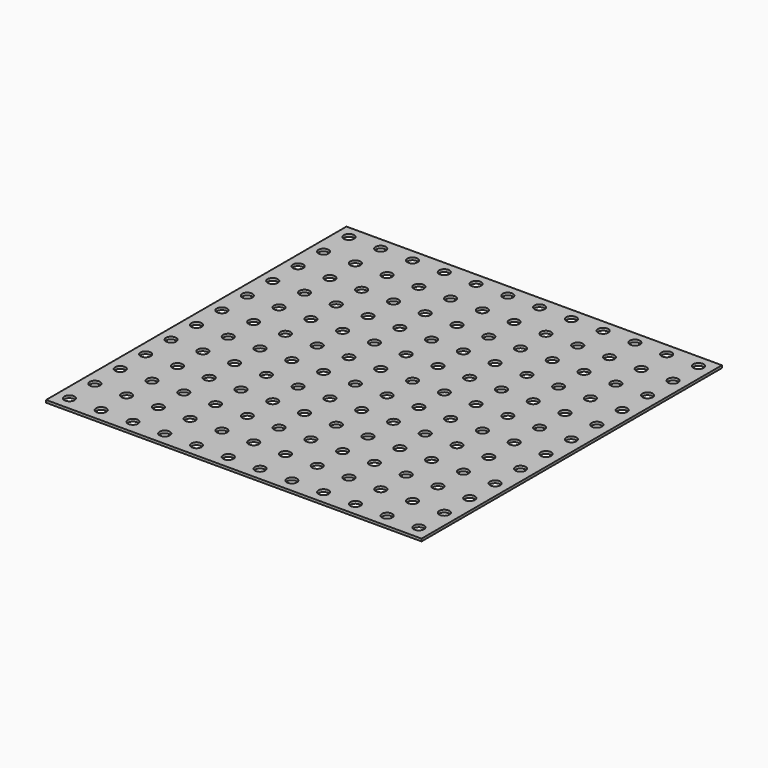
from build123d import *

# Parameters (mm, degrees)
SKETCH_W     = 150
SKETCH_H     = 150
PAD_DEPTH    = 1
SKETCH001_R  = 2.05
POCKET_DEPTH = 1.001


with BuildPart() as part:
    # Sketch → Pad (new body)
    with BuildSketch(Plane.XY):
        Rectangle(SKETCH_W, SKETCH_H)
    extrude(amount=PAD_DEPTH)

    # Sketch001 (on Face6 of Pad) → Pocket (cut, through all)
    with BuildSketch(Plane.XY.offset(1)):
        with Locations((-70, 70)):
            Circle(SKETCH001_R)
        with Locations((-57.30827, 70.00135)):
            Circle(SKETCH001_R)
        with Locations((-44.61654, 70.0027)):
            Circle(SKETCH001_R)
        with Locations((-31.92481, 70.00405)):
            Circle(SKETCH001_R)
        with Locations((-19.23308, 70.0054)):
            Circle(SKETCH001_R)
        with Locations((-6.54135, 70.00675)):
            Circle(SKETCH001_R)
        with Locations((6.15038, 70.0081)):
            Circle(SKETCH001_R)
        with Locations((18.84211, 70.00945)):
            Circle(SKETCH001_R)
        with Locations((31.53384, 70.0108)):
            Circle(SKETCH001_R)
        with Locations((44.22557, 70.01215)):
            Circle(SKETCH001_R)
        with Locations((56.9173, 70.0135)):
            Circle(SKETCH001_R)
        with Locations((69.60903, 70.01485)):
            Circle(SKETCH001_R)
        with Locations((-69.99865, 57.30827)):
            Circle(SKETCH001_R)
        with Locations((-57.30692, 57.30962)):
            Circle(SKETCH001_R)
        with Locations((-44.61519, 57.31097)):
            Circle(SKETCH001_R)
        with Locations((-31.92346, 57.31232)):
            Circle(SKETCH001_R)
        with Locations((-19.23173, 57.31367)):
            Circle(SKETCH001_R)
        with Locations((-6.54, 57.31502)):
            Circle(SKETCH001_R)
        with Locations((6.15173, 57.31637)):
            Circle(SKETCH001_R)
        with Locations((18.84346, 57.31772)):
            Circle(SKETCH001_R)
        with Locations((31.53519, 57.31907)):
            Circle(SKETCH001_R)
        with Locations((44.22692, 57.32042)):
            Circle(SKETCH001_R)
        with Locations((56.91865, 57.32177)):
            Circle(SKETCH001_R)
        with Locations((69.61038, 57.32312)):
            Circle(SKETCH001_R)
        with Locations((-69.9973, 44.61654)):
            Circle(SKETCH001_R)
        with Locations((-57.30557, 44.61789)):
            Circle(SKETCH001_R)
        with Locations((-44.61384, 44.61924)):
            Circle(SKETCH001_R)
        with Locations((-31.92211, 44.62059)):
            Circle(SKETCH001_R)
        with Locations((-19.23038, 44.62194)):
            Circle(SKETCH001_R)
        with Locations((-6.53865, 44.62329)):
            Circle(SKETCH001_R)
        with Locations((6.15308, 44.62464)):
            Circle(SKETCH001_R)
        with Locations((18.84481, 44.62599)):
            Circle(SKETCH001_R)
        with Locations((31.53654, 44.62734)):
            Circle(SKETCH001_R)
        with Locations((44.22827, 44.62869)):
            Circle(SKETCH001_R)
        with Locations((56.92, 44.63004)):
            Circle(SKETCH001_R)
        with Locations((69.61173, 44.63139)):
            Circle(SKETCH001_R)
        with Locations((-69.99595, 31.92481)):
            Circle(SKETCH001_R)
        with Locations((-57.30422, 31.92616)):
            Circle(SKETCH001_R)
        with Locations((-44.61249, 31.92751)):
            Circle(SKETCH001_R)
        with Locations((-31.92076, 31.92886)):
            Circle(SKETCH001_R)
        with Locations((-19.22903, 31.93021)):
            Circle(SKETCH001_R)
        with Locations((-6.5373, 31.93156)):
            Circle(SKETCH001_R)
        with Locations((6.15443, 31.93291)):
            Circle(SKETCH001_R)
        with Locations((18.84616, 31.93426)):
            Circle(SKETCH001_R)
        with Locations((31.53789, 31.93561)):
            Circle(SKETCH001_R)
        with Locations((44.22962, 31.93696)):
            Circle(SKETCH001_R)
        with Locations((56.92135, 31.93831)):
            Circle(SKETCH001_R)
        with Locations((69.61308, 31.93966)):
            Circle(SKETCH001_R)
        with Locations((-69.9946, 19.23308)):
            Circle(SKETCH001_R)
        with Locations((-57.30287, 19.23443)):
            Circle(SKETCH001_R)
        with Locations((-44.61114, 19.23578)):
            Circle(SKETCH001_R)
        with Locations((-31.91941, 19.23713)):
            Circle(SKETCH001_R)
        with Locations((-19.22768, 19.23848)):
            Circle(SKETCH001_R)
        with Locations((-6.53595, 19.23983)):
            Circle(SKETCH001_R)
        with Locations((6.15578, 19.24118)):
            Circle(SKETCH001_R)
        with Locations((18.84751, 19.24253)):
            Circle(SKETCH001_R)
        with Locations((31.53924, 19.24388)):
            Circle(SKETCH001_R)
        with Locations((44.23097, 19.24523)):
            Circle(SKETCH001_R)
        with Locations((56.9227, 19.24658)):
            Circle(SKETCH001_R)
        with Locations((69.61443, 19.24793)):
            Circle(SKETCH001_R)
        with Locations((-69.99325, 6.54135)):
            Circle(SKETCH001_R)
        with Locations((-57.30152, 6.5427)):
            Circle(SKETCH001_R)
        with Locations((-44.60979, 6.54405)):
            Circle(SKETCH001_R)
        with Locations((-31.91806, 6.5454)):
            Circle(SKETCH001_R)
        with Locations((-19.22633, 6.54675)):
            Circle(SKETCH001_R)
        with Locations((-6.5346, 6.5481)):
            Circle(SKETCH001_R)
        with Locations((6.15713, 6.54945)):
            Circle(SKETCH001_R)
        with Locations((18.84886, 6.5508)):
            Circle(SKETCH001_R)
        with Locations((31.54059, 6.55215)):
            Circle(SKETCH001_R)
        with Locations((44.23232, 6.5535)):
            Circle(SKETCH001_R)
        with Locations((56.92405, 6.55485)):
            Circle(SKETCH001_R)
        with Locations((69.61578, 6.5562)):
            Circle(SKETCH001_R)
        with Locations((-69.9919, -6.15038)):
            Circle(SKETCH001_R)
        with Locations((-57.30017, -6.14903)):
            Circle(SKETCH001_R)
        with Locations((-44.60844, -6.14768)):
            Circle(SKETCH001_R)
        with Locations((-31.91671, -6.14633)):
            Circle(SKETCH001_R)
        with Locations((-19.22498, -6.14498)):
            Circle(SKETCH001_R)
        with Locations((-6.53325, -6.14363)):
            Circle(SKETCH001_R)
        with Locations((6.15848, -6.14228)):
            Circle(SKETCH001_R)
        with Locations((18.85021, -6.14093)):
            Circle(SKETCH001_R)
        with Locations((31.54194, -6.13958)):
            Circle(SKETCH001_R)
        with Locations((44.23367, -6.13823)):
            Circle(SKETCH001_R)
        with Locations((56.9254, -6.13688)):
            Circle(SKETCH001_R)
        with Locations((69.61713, -6.13553)):
            Circle(SKETCH001_R)
        with Locations((-69.99055, -18.84211)):
            Circle(SKETCH001_R)
        with Locations((-57.29882, -18.84076)):
            Circle(SKETCH001_R)
        with Locations((-44.60709, -18.83941)):
            Circle(SKETCH001_R)
        with Locations((-31.91536, -18.83806)):
            Circle(SKETCH001_R)
        with Locations((-19.22363, -18.83671)):
            Circle(SKETCH001_R)
        with Locations((-6.5319, -18.83536)):
            Circle(SKETCH001_R)
        with Locations((6.15983, -18.83401)):
            Circle(SKETCH001_R)
        with Locations((18.85156, -18.83266)):
            Circle(SKETCH001_R)
        with Locations((31.54329, -18.83131)):
            Circle(SKETCH001_R)
        with Locations((44.23502, -18.82996)):
            Circle(SKETCH001_R)
        with Locations((56.92675, -18.82861)):
            Circle(SKETCH001_R)
        with Locations((69.61848, -18.82726)):
            Circle(SKETCH001_R)
        with Locations((-69.9892, -31.53384)):
            Circle(SKETCH001_R)
        with Locations((-57.29747, -31.53249)):
            Circle(SKETCH001_R)
        with Locations((-44.60574, -31.53114)):
            Circle(SKETCH001_R)
        with Locations((-31.91401, -31.52979)):
            Circle(SKETCH001_R)
        with Locations((-19.22228, -31.52844)):
            Circle(SKETCH001_R)
        with Locations((-6.53055, -31.52709)):
            Circle(SKETCH001_R)
        with Locations((6.16118, -31.52574)):
            Circle(SKETCH001_R)
        with Locations((18.85291, -31.52439)):
            Circle(SKETCH001_R)
        with Locations((31.54464, -31.52304)):
            Circle(SKETCH001_R)
        with Locations((44.23637, -31.52169)):
            Circle(SKETCH001_R)
        with Locations((56.9281, -31.52034)):
            Circle(SKETCH001_R)
        with Locations((69.61983, -31.51899)):
            Circle(SKETCH001_R)
        with Locations((-69.98785, -44.22557)):
            Circle(SKETCH001_R)
        with Locations((-57.29612, -44.22422)):
            Circle(SKETCH001_R)
        with Locations((-44.60439, -44.22287)):
            Circle(SKETCH001_R)
        with Locations((-31.91266, -44.22152)):
            Circle(SKETCH001_R)
        with Locations((-19.22093, -44.22017)):
            Circle(SKETCH001_R)
        with Locations((-6.5292, -44.21882)):
            Circle(SKETCH001_R)
        with Locations((6.16253, -44.21747)):
            Circle(SKETCH001_R)
        with Locations((18.85426, -44.21612)):
            Circle(SKETCH001_R)
        with Locations((31.54599, -44.21477)):
            Circle(SKETCH001_R)
        with Locations((44.23772, -44.21342)):
            Circle(SKETCH001_R)
        with Locations((56.92945, -44.21207)):
            Circle(SKETCH001_R)
        with Locations((69.62118, -44.21072)):
            Circle(SKETCH001_R)
        with Locations((-69.9865, -56.9173)):
            Circle(SKETCH001_R)
        with Locations((-57.29477, -56.91595)):
            Circle(SKETCH001_R)
        with Locations((-44.60304, -56.9146)):
            Circle(SKETCH001_R)
        with Locations((-31.91131, -56.91325)):
            Circle(SKETCH001_R)
        with Locations((-19.21958, -56.9119)):
            Circle(SKETCH001_R)
        with Locations((-6.52785, -56.91055)):
            Circle(SKETCH001_R)
        with Locations((6.16388, -56.9092)):
            Circle(SKETCH001_R)
        with Locations((18.85561, -56.90785)):
            Circle(SKETCH001_R)
        with Locations((31.54734, -56.9065)):
            Circle(SKETCH001_R)
        with Locations((44.23907, -56.90515)):
            Circle(SKETCH001_R)
        with Locations((56.9308, -56.9038)):
            Circle(SKETCH001_R)
        with Locations((69.62253, -56.90245)):
            Circle(SKETCH001_R)
        with Locations((-69.98515, -69.60903)):
            Circle(SKETCH001_R)
        with Locations((-57.29342, -69.60768)):
            Circle(SKETCH001_R)
        with Locations((-44.60169, -69.60633)):
            Circle(SKETCH001_R)
        with Locations((-31.90996, -69.60498)):
            Circle(SKETCH001_R)
        with Locations((-19.21823, -69.60363)):
            Circle(SKETCH001_R)
        with Locations((-6.5265, -69.60228)):
            Circle(SKETCH001_R)
        with Locations((6.16523, -69.60093)):
            Circle(SKETCH001_R)
        with Locations((18.85696, -69.59958)):
            Circle(SKETCH001_R)
        with Locations((31.54869, -69.59823)):
            Circle(SKETCH001_R)
        with Locations((44.24042, -69.59688)):
            Circle(SKETCH001_R)
        with Locations((56.93215, -69.59553)):
            Circle(SKETCH001_R)
        with Locations((69.62388, -69.59418)):
            Circle(SKETCH001_R)
    extrude(amount=-POCKET_DEPTH, mode=Mode.SUBTRACT)


solid = part.part
